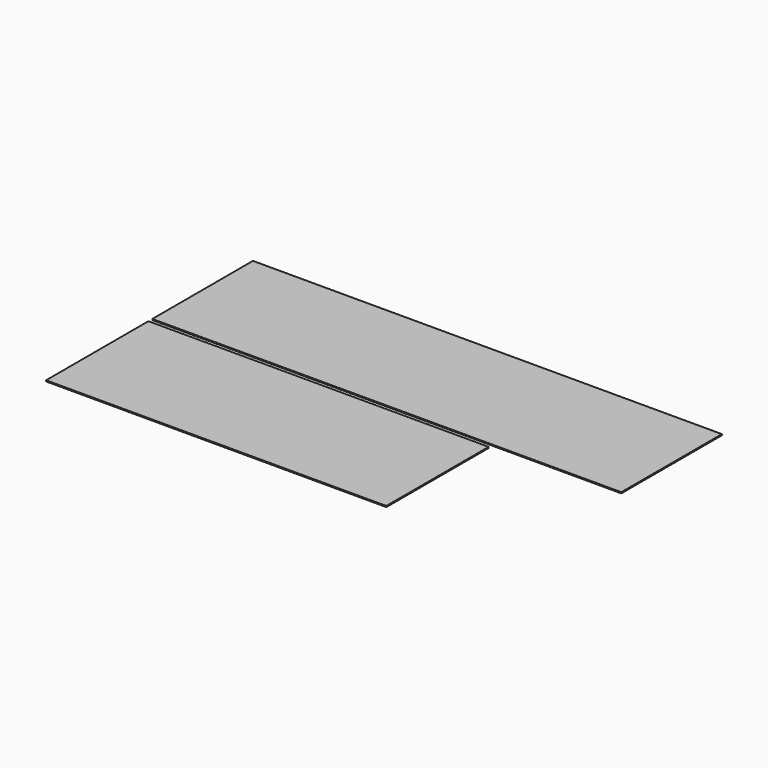
from build123d import *

# Parameters (mm, degrees)
F0_W     = 1596
F0_H     = 600
F0_W_2   = 2200
F0_H_2   = 590
F1_DEPTH = 5


with BuildPart() as f1:
    # F0 (on Top) → F1 (new body)
    with BuildSketch(Plane.XY):
        Rectangle(F0_W, F0_H)
        with Locations((302, 617.841227)):
            Rectangle(F0_W_2, F0_H_2)
    extrude(amount=F1_DEPTH)


solid = f1.part
